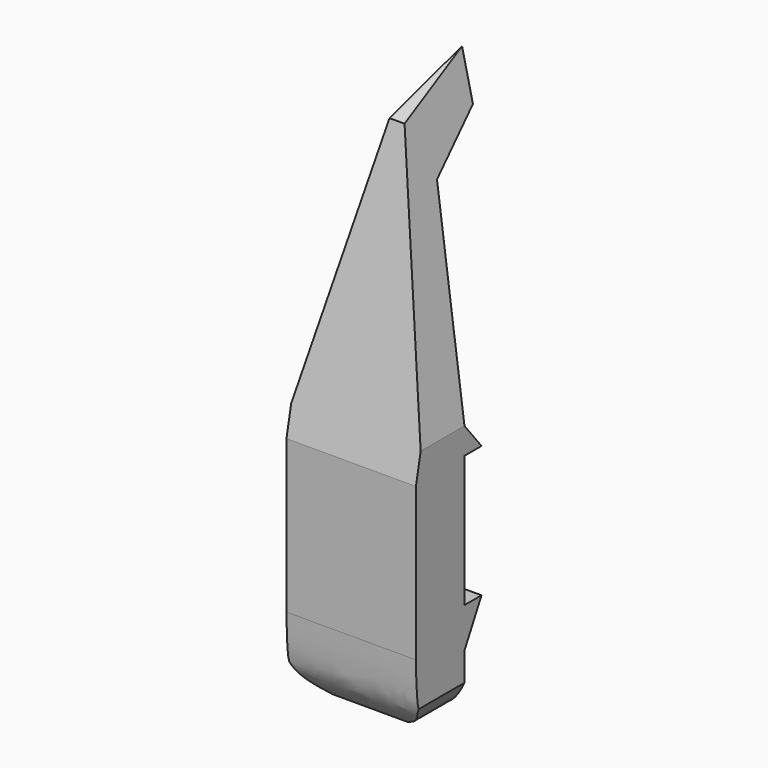
from build123d import *

# Parameters (mm, degrees)
F0_W     = 200
F0_H     = 272
F1_DEPTH = 414
F3_DEPTH = 200.001
F5_DEPTH = 214.0125203069
F7_D     = 5
F7_DEPTH = 50
F7_TIP   = 1.5021515476


with BuildPart() as f1:
    # F0 (on Top) → F1 (new body, symmetric)
    with BuildSketch(Plane.XY):
        Rectangle(F0_W, F0_H)
    extrude(amount=F1_DEPTH, both=True)

    # F2 (on face) → F3 (cut, through all)
    with BuildSketch(Plane(origin=(-100, 0, 0), x_dir=(0, -1, 0), z_dir=(-1, 0, 0))):
        Polygon((-48.6409515142, 278.2896161079), (-136, 340.7483696938), (-136, -414), (-15.6766073778, -414), (-15.6766073778, -326.6927754041), (-48.640947789, -264.7544890642), (-15.6766073778, -264.7544890642), (-15.6766073778, -61.7635734379), (-48.640947789, -61.7635734379), (-15.6766073778, -21.04292392), align=None)
        with BuildLine():
            Line((136, 414), (-136, 414))
            Line((-136, 414), (-10.4717324721, 363.3029013872))
            Line((-10.4717324721, 363.3029013872), (78.0115202069, -65.2334988117))
            Line((78.0115202069, -65.2334988117), (78.0115202069, -301.1887669563))
            add(Edge.make_bspline(
                [(41.577257216, -414), (52.5528446959, -402.42919259), (72.8831837624, -381.0445803549), (76.791037733, -347.6423075278), (78.0115202069, -317.6310269751), (78.0115202069, -301.1887669563)],
                knots=[0, 0, 0, 0, 0.3478343827, 0.6428666129, 1, 1, 1, 1], degree=3))
            Line((41.577257216, -414), (136, -414))
            Line((136, -414), (136, 414))
        make_face()
    extrude(amount=-F3_DEPTH, mode=Mode.SUBTRACT)

    # F4 (on face) → F5 (cut, through all)
    with BuildSketch(Plane.XZ.offset(78.0115202069)):
        Polygon((-100, -21.04292392), (0, 414), (-100, 414), (-100, 340.7483696938), (-100, 278.2896161079), align=None)
        Polygon((100, 414), (0, 414), (100, -21.04292392), (100, 278.2896161079), (100, 340.7483696938), align=None)
        with BuildLine():
            Line((57.925209403, -414), (100, -414))
            Line((100, -414), (100, -370.346387702))
            add(Edge.make_bspline(
                [(100, -370.346387702), (95.4592593145, -379.6018433489), (86.2772620908, -398.3176375197), (67.4446143257, -408.7345343832), (57.925209403, -414)],
                knots=[0, 0, 0, 0, 0.4945264712, 1, 1, 1, 1], degree=3))
        make_face()
        with BuildLine():
            Line((-100, -414), (-57.925209403, -414))
            add(Edge.make_bspline(
                [(-100, -370.346387702), (-95.4592593145, -379.6018433489), (-86.2772620908, -398.3176375197), (-67.4446143257, -408.7345343832), (-57.925209403, -414)],
                knots=[0, 0, 0, 0, 0.4945264712, 1, 1, 1, 1], degree=3))
            Line((-100, -370.346387702), (-100, -414))
        make_face()
    extrude(amount=-F5_DEPTH, mode=Mode.SUBTRACT)

    # F7
    with Locations(Plane(origin=(0, 0, -414), x_dir=(1, 0, 0), z_dir=(0, 0, -1))):
        with Locations((0, 15.3372772038)):
            Hole(F7_D / 2, depth=F7_DEPTH)
            with Locations((0, 0, -(F7_DEPTH + F7_TIP / 2))):  # 118° drill point
                Cone(0, F7_D / 2, F7_TIP, mode=Mode.SUBTRACT)


solid = f1.part
